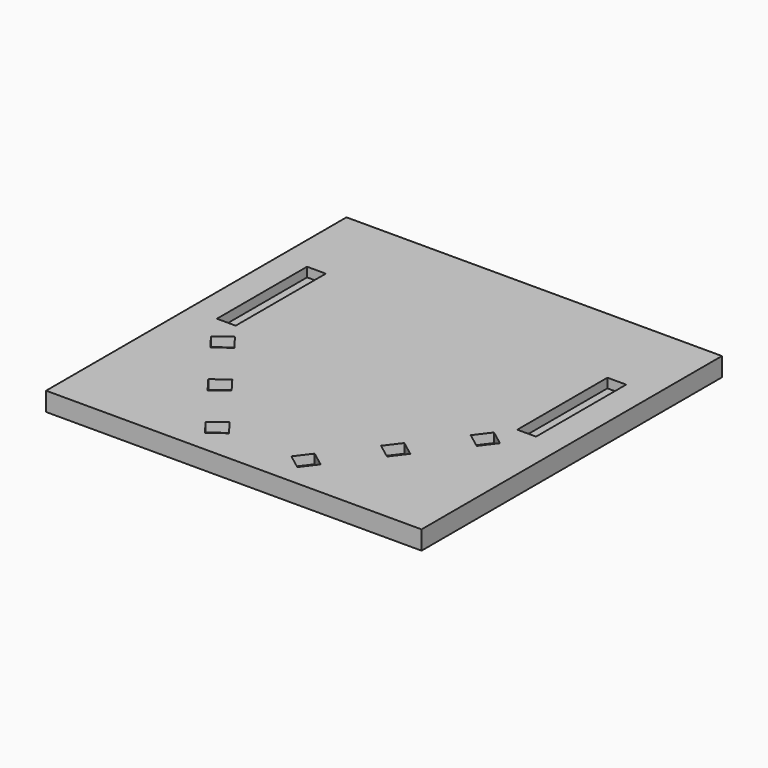
from build123d import *

# Parameters (mm, degrees)
F0_W     = 200
F0_H     = 200
F1_DEPTH = 10
F2_W     = 10
F2_H     = 60
F3_DEPTH = 5


with BuildPart() as f1:
    # F0 (on Top) → F1 (new body)
    with BuildSketch(Plane.XY):
        Rectangle(F0_W, F0_H)
    extrude(amount=F1_DEPTH)

    # F2 (on face) → F3 (cut)
    with BuildSketch(Plane.XY.offset(10)):
        with Locations((-80, 25)):
            Rectangle(F2_W, F2_H)
        with Locations((80, 25)):
            Rectangle(F2_W, F2_H)
        Polygon((-68.98185, -12.986355), (-76.968205, -19.004505), (-70.950055, -26.99086), (-62.9637, -20.97271), align=None)
        Polygon((-45.811971, -43.733822), (-53.798326, -49.751972), (-47.780176, -57.738328), (-39.793821, -51.720177), align=None)
        Polygon((-22.642093, -74.481289), (-30.628448, -80.49944), (-24.610298, -88.485795), (-16.623943, -82.467644), align=None)
        Polygon((22.642093, -74.481289), (16.623943, -82.467644), (24.610298, -88.485795), (30.628448, -80.49944), align=None)
        Polygon((76.968205, -19.004505), (68.98185, -12.986355), (62.9637, -20.97271), (70.950055, -26.99086), align=None)
        Polygon((47.780176, -57.738328), (53.798326, -49.751972), (45.811971, -43.733822), (39.793821, -51.720177), align=None)
    extrude(amount=-F3_DEPTH, mode=Mode.SUBTRACT)


solid = f1.part
